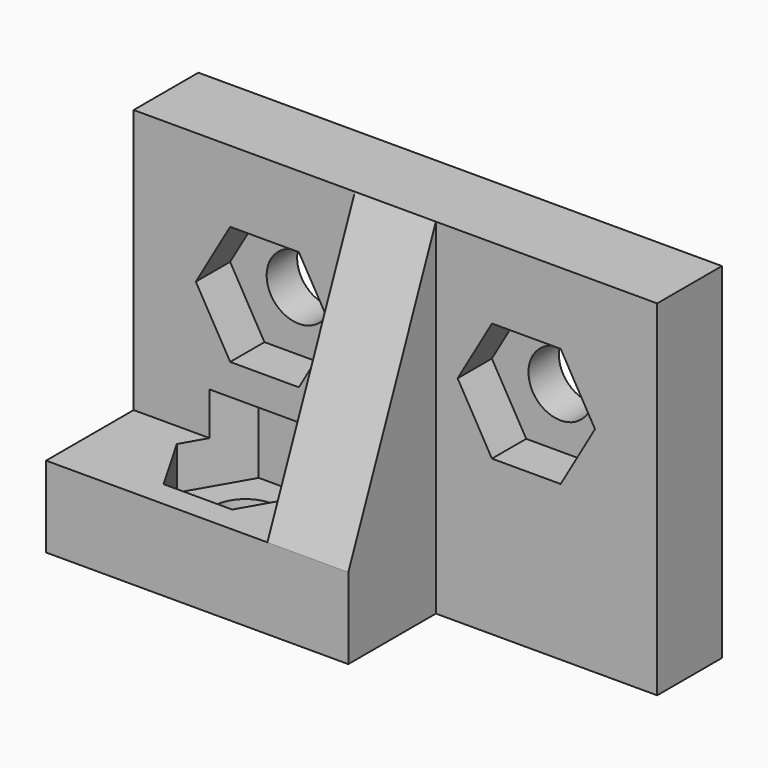
from build123d import *

# Parameters (mm, degrees)
EXTRUDE003_DEPTH  = 3.6
CYLINDER002_R     = 1.35
CYLINDER002_DEPTH = 3.4
EXTRUDE002_DEPTH  = 1.8
CYLINDER003_R     = 1.35
CYLINDER003_DEPTH = 3.4
EXTRUDE001_DEPTH  = 1.8
CYLINDER_R        = 1.35
CYLINDER_DEPTH    = 3.4
BOX_W             = 22
BOX_H             = 3.4
BOX_DEPTH         = 14.5
BOX001_W          = 12.7
BOX001_H          = 4.6
BOX001_DEPTH      = 3.4
EXTRUDE_DEPTH     = 3.4


with BuildPart() as extrude003:
    # Sketch003 → Extrude003 (new body)
    with BuildSketch(Plane(origin=(5.5, -1, 1.6), x_dir=(1, 0, 0), z_dir=(0, 0, 1))):
        Polygon((2.8868, 0), (1.4434, 2.500042), (-1.4434, 2.500042), (-2.8868, 0), (-1.4434, -2.500042), (1.4434, -2.500042), align=None)
    extrude(amount=EXTRUDE003_DEPTH)


with BuildPart() as hole03:
    # Cylinder002 → Cylinder002 (new body)
    with BuildSketch(Plane(origin=(5.5, -1, 0), x_dir=(0, 1, 0), z_dir=(0, 0, 1))):
        Circle(CYLINDER002_R)
    extrude(amount=CYLINDER002_DEPTH)

    # Fusion002: union Extrude003
    add(extrude003.part)


with BuildPart() as extrude002:
    # Sketch002 → Extrude002 (new body)
    with BuildSketch(Plane(origin=(16.5, 1.8, 9), x_dir=(1, 0, 0), z_dir=(0, -1, 0))):
        Polygon((2.8868, 0), (1.4434, 2.500042), (-1.4434, 2.500042), (-2.8868, 0), (-1.4434, -2.500042), (1.4434, -2.500042), align=None)
    extrude(amount=EXTRUDE002_DEPTH)


with BuildPart() as hole02:
    # Cylinder003 → Cylinder003 (new body)
    with BuildSketch(Plane(origin=(16.5, 3.4, 9), x_dir=(1, 0, 0), z_dir=(0, -1, 0))):
        Circle(CYLINDER003_R)
    extrude(amount=CYLINDER003_DEPTH)

    # Fusion001: union Extrude002
    add(extrude002.part)


with BuildPart() as extrude001:
    # Sketch001 → Extrude001 (new body)
    with BuildSketch(Plane(origin=(5.5, 1.8, 9), x_dir=(1, 0, 0), z_dir=(0, -1, 0))):
        Polygon((2.8868, 0), (1.4434, 2.500042), (-1.4434, 2.500042), (-2.8868, 0), (-1.4434, -2.500042), (1.4434, -2.500042), align=None)
    extrude(amount=EXTRUDE001_DEPTH)


with BuildPart() as hole01:
    # Cylinder → Cylinder (new body)
    with BuildSketch(Plane(origin=(5.5, 3.4, 9), x_dir=(1, 0, 0), z_dir=(0, -1, 0))):
        Circle(CYLINDER_R)
    extrude(amount=CYLINDER_DEPTH)

    # Fusion: union Extrude001
    add(extrude001.part)


with BuildPart() as cut001:
    # Box → Box (new body)
    with BuildSketch(Plane.XY):
        with Locations((11, 1.7)):
            Rectangle(BOX_W, BOX_H)
    extrude(amount=BOX_DEPTH)

    # Cut: cut Hole01
    add(hole01.part, mode=Mode.SUBTRACT)

    # Cut001: cut Hole02
    add(hole02.part, mode=Mode.SUBTRACT)


with BuildPart() as cut002:
    # Box001 → Box001 (new body)
    with BuildSketch(Plane(origin=(0, -4.6, 0), x_dir=(1, 0, 0), z_dir=(0, 0, 1))):
        with Locations((6.35, 2.3)):
            Rectangle(BOX001_W, BOX001_H)
    extrude(amount=BOX001_DEPTH)

    # Fusion003: union Cut001
    add(cut001.part)

    # Cut002: cut Hole03
    add(hole03.part, mode=Mode.SUBTRACT)


with BuildPart() as left_hand_bracket:
    # Sketch → Extrude (new body)
    with BuildSketch(Plane(origin=(0, 0, 3.4), x_dir=(0, 1, 0), z_dir=(1, 0, 0))):
        Polygon((0, 11.1), (0, 0), (-4.6, 0), align=None)
    extrude(amount=EXTRUDE_DEPTH)


with BuildPart() as left_hand_bracket_1:
    # Extrude placement: moved
    add(left_hand_bracket.part.moved(Location((9.3, 0, 0))))

    # Fusion004: union Cut002
    add(cut002.part)


solid = left_hand_bracket_1.part
